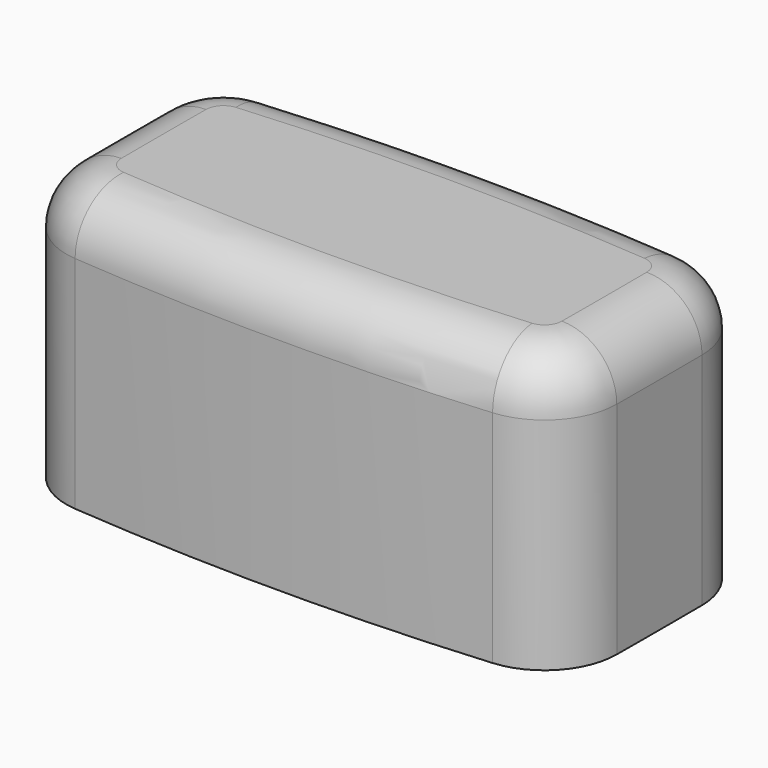
from build123d import *

# Parameters (mm, degrees)
SKETCH023_W  = 3.3
SKETCH023_H  = 2.2
PAD017_DEPTH = 2.5
PAD016_DEPTH = 5.5
FILLET001_R  = 1.1


with BuildPart() as pad_button_hole:
    # Sketch023 → Pad017 (new body)
    with BuildSketch(Plane.XY):
        Rectangle(SKETCH023_W, SKETCH023_H)
    extrude(amount=PAD017_DEPTH)


with BuildPart() as cut_button_small_final:
    # Sketch020 → Pad016 (new body)
    with BuildSketch(Plane.XY):
        with BuildLine():
            ThreePointArc((4.169285, 2.5), (0, 2.670418), (-4.169285, 2.5))
            ThreePointArc((-4.169285, 2.5), (-5.113877, 2.040693), (-5.5, 1.0639))
            ThreePointArc((-5.5, 1.0639), (-5.502959, 0), (-5.5, -1.0639))
            ThreePointArc((-5.5, -1.0639), (-5.113877, -2.040693), (-4.169285, -2.5))
            ThreePointArc((-4.169285, -2.5), (0, -2.670418), (4.169285, -2.5))
            ThreePointArc((4.169285, -2.5), (5.113877, -2.040693), (5.5, -1.0639))
            ThreePointArc((5.5, -1.0639), (5.502959, 0), (5.5, 1.0639))
            ThreePointArc((5.5, 1.0639), (5.113877, 2.040693), (4.169285, 2.5))
        make_face()
    extrude(amount=PAD016_DEPTH)

    # Fillet001
    fillet001_edges = [cut_button_small_final.edges().sort_by_distance(p)[0] for p in [
        (0, 2.670418, 5.5),
        (-5.113877, 2.040693, 5.5),
        (-5.502959, 0, 5.5),
        (-5.113877, -2.040693, 5.5),
        (0, -2.670418, 5.5),
        (5.113877, -2.040693, 5.5),
        (5.502959, 0, 5.5),
        (5.113877, 2.040693, 5.5),
    ]]
    fillet(fillet001_edges, radius=FILLET001_R)

    # Cut003: cut Pad (button hole)
    add(pad_button_hole.part, mode=Mode.SUBTRACT)


solid = cut_button_small_final.part
